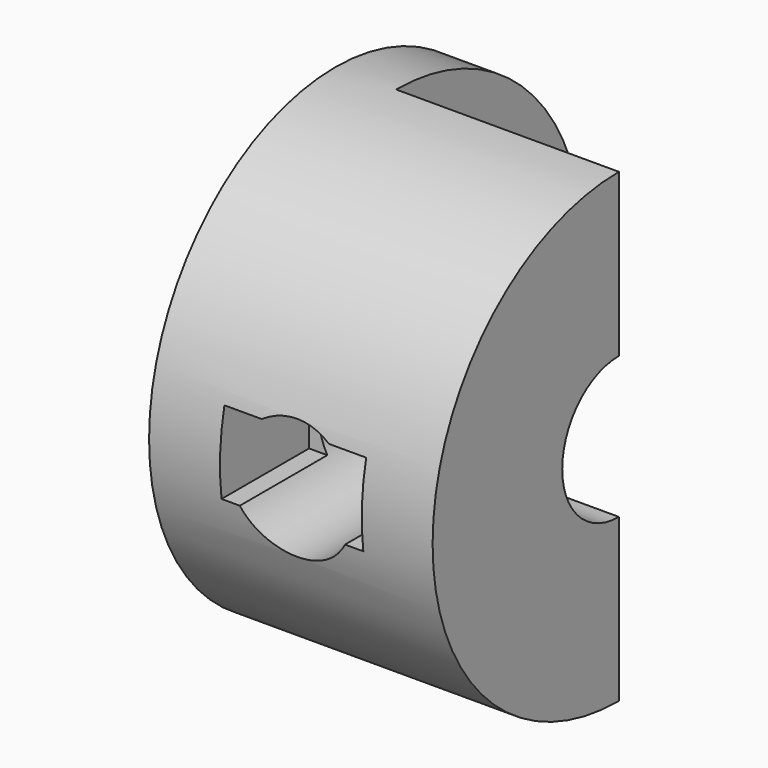
from build123d import *

# Parameters (mm, degrees)
SKETCH054_R     = 11.5
PAD018_DEPTH    = 14
SKETCH055_W     = 11.5
SKETCH055_H     = 23
POCKET033_DEPTH = 11
SKETCH056_R     = 3
POCKET034_DEPTH = 11.501
SKETCH057_R     = 2.5
POCKET035_DEPTH = 3
SKETCH058_R     = 3.5
POCKET036_DEPTH = 12
SKETCH059_W     = 7
SKETCH059_H     = 4
POCKET037_DEPTH = 8


with BuildPart() as part:
    # Sketch054 → Pad018 (new body)
    with BuildSketch(Plane.YZ):
        with Locations((-11, 45)):
            Circle(SKETCH054_R)
    extrude(amount=PAD018_DEPTH)

    # Sketch055 (on Face3 of Pad018) → Pocket033 (cut)
    with BuildSketch(Plane.YZ.offset(14)):
        with Locations((-5.25, 45)):
            Rectangle(SKETCH055_W, SKETCH055_H)
    extrude(amount=-POCKET033_DEPTH, mode=Mode.SUBTRACT)

    # Sketch056 (on Face4 of Pocket033) → Pocket034 (cut, through all)
    with BuildSketch(Plane.ZX.offset(-11)):
        with Locations((45, 7)):
            Circle(SKETCH056_R)
    extrude(amount=-POCKET034_DEPTH, mode=Mode.SUBTRACT)

    # Sketch057 (on Face5 of Pocket034) → Pocket035 (cut)
    with BuildSketch(Plane(origin=(0, 0, 0), x_dir=(0, 1, 0), z_dir=(-1, 0, 0))):
        with Locations((-11, -45)):
            Circle(SKETCH057_R)
    extrude(amount=-POCKET035_DEPTH, mode=Mode.SUBTRACT)

    # Sketch058 (on Face4 of Pocket035) → Pocket036 (cut)
    with BuildSketch(Plane.YZ.offset(14)):
        with Locations((-11, 45)):
            Circle(SKETCH058_R)
    extrude(amount=-POCKET036_DEPTH, mode=Mode.SUBTRACT)

    # Sketch059 → Pocket037 (cut)
    with BuildSketch(Plane.XZ.offset(25)):
        with Locations((7, 45.5)):
            Rectangle(SKETCH059_W, SKETCH059_H)
    extrude(amount=-POCKET037_DEPTH, mode=Mode.SUBTRACT)


with BuildPart() as part_1:
    # Body004 placement: moved
    add(part.part.moved(Location((-7, 0, 0))))


solid = part_1.part
